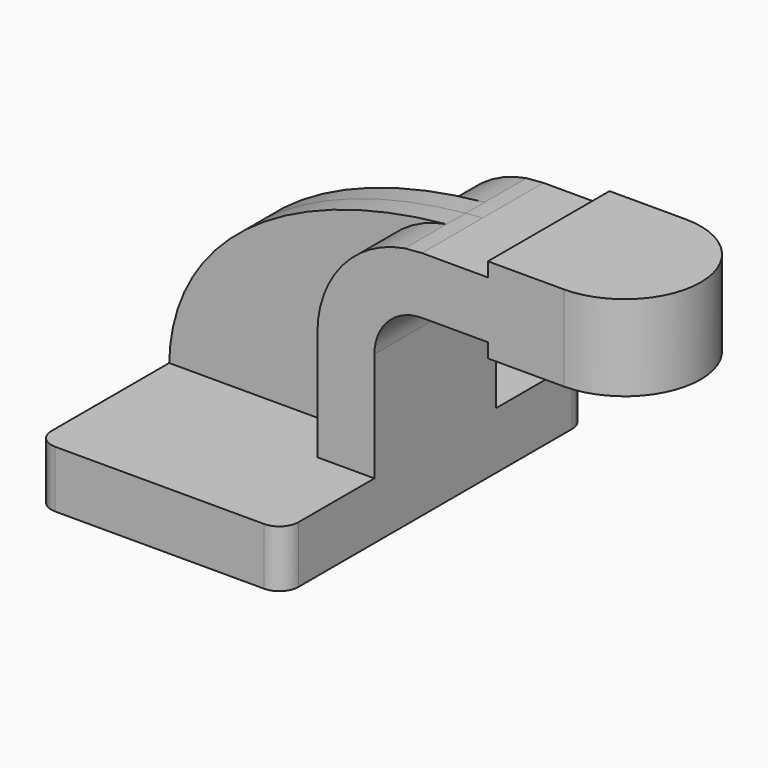
from build123d import *

# Parameters (mm, degrees)
F1_DEPTH = 63.5
F2_DEPTH = 25.4
F3_DEPTH = 7.9375
F0_W     = 25.4
F0_H     = 28.575
F5_R     = 6.35


with BuildPart() as f1:
    # F0 (on Front) → F1 (new body, symmetric)
    with BuildSketch(Plane.XZ):
        Polygon((-41.275, 9.525), (-41.275, -9.525), (41.275, -9.525), (41.275, 9.525), (22.224999, 9.525), align=None)
    extrude(amount=F1_DEPTH, both=True)

    # F0 (on Front) → F2 (join, symmetric)
    with BuildSketch(Plane.XZ):
        with BuildLine():
            Line((22.224999, 9.525), (41.275, 9.525))
            Line((41.275, 9.525), (41.275, 46.0502))
            ThreePointArc((41.275, 46.0502), (45.92468, 57.27552), (57.15, 61.9252))
            Line((57.15, 61.9252), (79.210615, 61.9252))
            Line((79.210615, 61.9252), (79.210615, 80.975201))
            Line((79.210615, 80.975201), (57.15, 80.975201))
            add(Edge.make_bspline(
                [(51.463786, 80.5092), (53.33983, 80.690444), (55.23552, 80.845904), (57.15, 80.975201)],
                knots=[117.550544, 117.550544, 117.550544, 117.550544, 121.624882, 121.624882, 121.624882, 121.624882], degree=3))
            ThreePointArc((51.463786, 80.5092), (30.519691, 68.646269), (22.224999, 46.0502))
            Line((22.224999, 46.0502), (22.224999, 9.525))
        make_face()
        Polygon((79.210615, 85.725), (79.210615, 80.975201), (79.210615, 61.9252), (79.210615, 57.15), (104.610615, 57.15), (104.610615, 85.725), align=None)
    extrude(amount=F2_DEPTH, both=True)

    # F0 (on Front) → F3 (join, symmetric)
    with BuildSketch(Plane.XZ):
        with BuildLine():
            add(Edge.make_bspline(
                [(-41.275, 9.525), (-40.4355, 48.588255), (-2.662796, 75.280054), (51.463786, 80.5092)],
                knots=[0, 0, 0, 0, 117.550544, 117.550544, 117.550544, 117.550544], degree=3))
            Line((-41.275, 9.525), (22.224999, 9.525))
            Line((22.224999, 9.525), (22.224999, 46.0502))
            ThreePointArc((22.224999, 46.0502), (30.519691, 68.646269), (51.463786, 80.5092))
        make_face()
    extrude(amount=F3_DEPTH, both=True)

    # F0 (on Front) → F4 (revolve)
    with BuildSketch(Plane.XZ):
        with Locations((117.310615, 71.4375)):
            Rectangle(F0_W, F0_H)
    revolve(axis=Axis((104.610615, 0, 71.4375), (0, 0, 1)))

    # F5
    f5_edges = [f1.edges().sort_by_distance(p)[0] for p in [
        (41.275, -63.5, 0),
        (41.275, 63.5, 0),
        (-41.275, 63.5, 0),
        (-41.275, -63.5, 0),
    ]]
    fillet(f5_edges, radius=F5_R)


solid = f1.part
